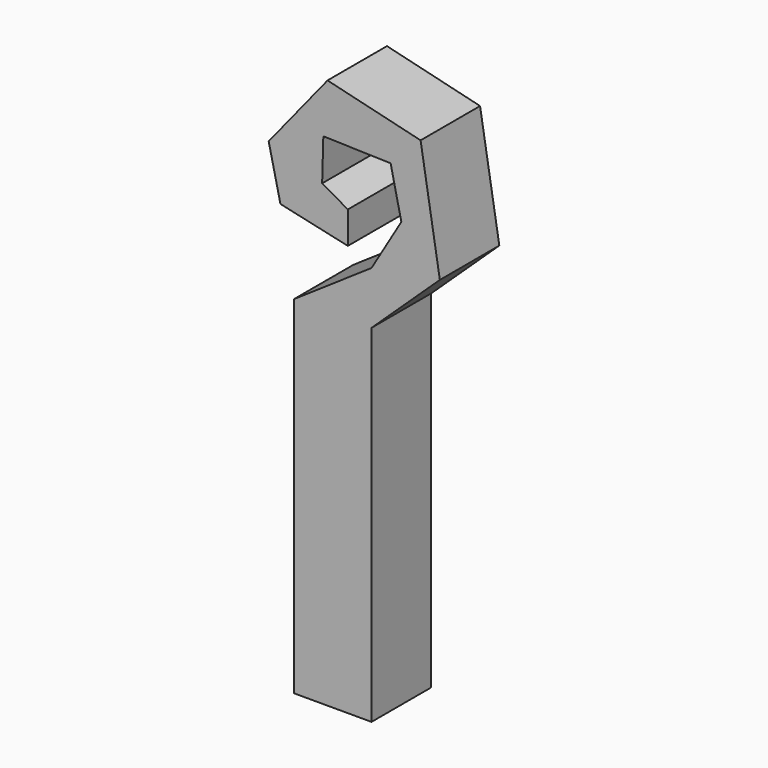
from build123d import *

# Parameters (mm, degrees)
F1_DEPTH = 2.286


with BuildPart() as f1:
    # F0 (on Front) → F1 (new body)
    with BuildSketch(Plane.XZ):
        Polygon((0, 10.668), (0, 0), (2.3876, 0), (2.3876, 10.668), (4.488768, 12.648927), (3.896617, 16.234731), (1.034552, 16.925575), (-0.774799, 14.688559), (-0.412929, 13.109488), (1.659601, 12.648927), (1.659601, 13.635846), (0.869158, 14.08541), (0.9057, 15.372378), (2.975493, 15.313608), (3.304466, 13.833229), (2.3876, 12.287056), align=None)
        Polygon((0, 10.668), (0, 0), (2.3876, 0), (2.3876, 10.668), (4.488768, 12.648927), (3.896617, 16.234731), (1.034552, 16.925575), (-0.774799, 14.688559), (-0.412929, 13.109488), (1.659601, 12.648927), (1.659601, 13.635846), (0.869158, 14.08541), (0.9057, 15.372378), (2.975493, 15.313608), (3.304466, 13.833229), (2.3876, 12.287056), align=None)
    extrude(amount=F1_DEPTH)


solid = f1.part
